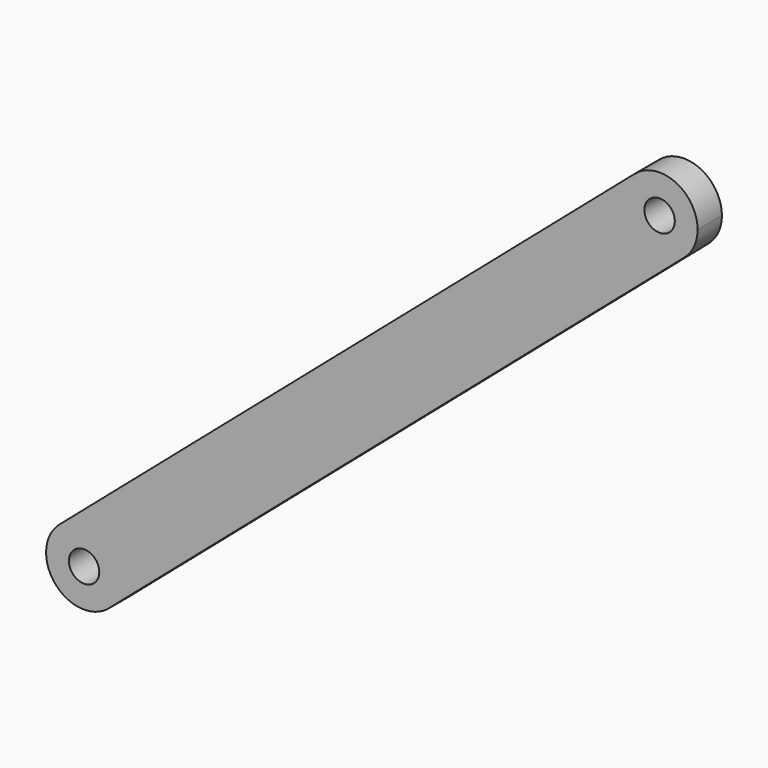
from build123d import *

# Parameters (mm, degrees)
F0_R     = 2.54
F1_DEPTH = 5.08


with BuildPart() as f1:
    # F0 (on Front) → F1 (new body)
    with BuildSketch(Plane.XZ):
        with BuildLine():
            ThreePointArc((-48.909848, -34.724761), (-47.497862, -32.648118), (-47.001315, -30.186494))
            ThreePointArc((-47.001315, -30.186494), (-50.705854, -24.413797), (-57.497075, -25.37659))
            ThreePointArc((-57.497075, -25.37659), (-58.29029, -34.177612), (-49.518854, -35.249571))
            Line((-49.518854, -35.249571), (-48.909848, -34.724761))
        make_face()
        with Locations((-53.351315, -30.186494)):
            Circle(F0_R, mode=Mode.SUBTRACT)
        with BuildLine():
            ThreePointArc((-57.497075, -25.37659), (-50.705854, -24.413797), (-47.001315, -30.186494))
            ThreePointArc((-47.001315, -30.186494), (-47.497862, -32.648118), (-48.909848, -34.724761))
            Line((-48.909848, -34.724761), (46.992039, 47.918384))
            ThreePointArc((46.992039, 47.918384), (38.03665, 48.583185), (38.701002, 57.538608))
            Line((38.701002, 57.538608), (-57.497075, -25.37659))
        make_face()
        with BuildLine():
            ThreePointArc((-49.518854, -35.249571), (-49.206037, -34.996814), (-48.909848, -34.724761))
            Line((-48.909848, -34.724761), (-49.518854, -35.249571))
        make_face()
        with BuildLine():
            ThreePointArc((49.196762, 52.728704), (45.492222, 58.501402), (38.701002, 57.538608))
            ThreePointArc((38.701002, 57.538608), (38.03665, 48.583185), (46.992039, 47.918384))
            ThreePointArc((46.992039, 47.918384), (48.619327, 50.082954), (49.196762, 52.728704))
        make_face()
        with Locations((42.846762, 52.728704)):
            Circle(F0_R, mode=Mode.SUBTRACT)
    extrude(amount=F1_DEPTH)


solid = f1.part
